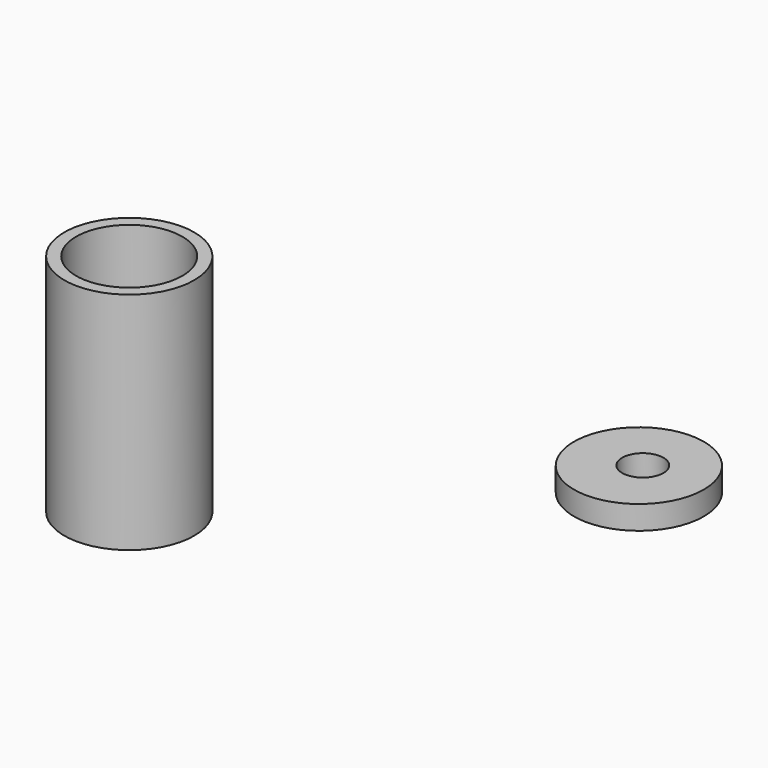
from build123d import *

# Parameters (mm, degrees)
F0_R      = 5.5
F1_DEPTH  = 19.05
F2_R      = 4.499991
F3_DEPTH  = 76.708
F4_W      = 0.485978
F4_H      = 6.280332
F5_DEPTH  = 0.762
F6_W      = 0.485978
F6_H      = 8.03733
F7_DEPTH  = 0.762
F8_W      = 0.371876
F8_H      = 9.338215
F9_DEPTH  = 0.762
F10_W     = 0.454515
F10_H     = 10.123286
F11_DEPTH = 0.762
F12_W     = 0.371876
F12_H     = 9.958009
F13_DEPTH = 0.762
F14_W     = 0.495835
F14_H     = 9.503493
F15_DEPTH = 0.762
F16_W     = 0.486436
F16_H     = 8.651616
F17_DEPTH = 0.762
F18_W     = 0.521182
F18_H     = 7.053327
F19_DEPTH = 0.762
F20_W     = 6.751313
F20_H     = 0.538448
F21_DEPTH = 0.762
F22_W     = 8.288373
F22_H     = 0.397597
F23_DEPTH = 0.762
F24_W     = 9.878763
F24_H     = 0.428182
F25_DEPTH = 0.762
F26_W     = 9.948163
F26_H     = 0.489871
F27_DEPTH = 0.762
F28_W     = 9.515634
F28_H     = 0.519034
F29_DEPTH = 0.762
F30_W     = 8.866841
F30_H     = 0.475782
F31_DEPTH = 0.762
F32_W     = 6.444679
F32_H     = 0.346023
F33_DEPTH = 0.762
F34_R     = 5.5
F35_DEPTH = 2
F36_R     = 1.75
F37_DEPTH = 19.7866


with BuildPart() as f1:
    # F0 (on Top) → F1 (new body)
    with BuildSketch(Plane.XY):
        Circle(F0_R)
    extrude(amount=F1_DEPTH)

    # F2 (on Top) → F3 (cut)
    with BuildSketch(Plane.XY):
        Circle(F2_R)
    extrude(amount=F3_DEPTH, mode=Mode.SUBTRACT)

    # F4 (on Top) → F5 (join)
    with BuildSketch(Plane.XY):
        with Locations((-4.024304, 0.004935)):
            Rectangle(F4_W, F4_H)
    extrude(amount=F5_DEPTH)

    # F6 (on Top) → F7 (join)
    with BuildSketch(Plane.XY):
        with Locations((-2.790667, 0.023627)):
            Rectangle(F6_W, F6_H)
    extrude(amount=F7_DEPTH)

    # F8 (on Top) → F9 (join)
    with BuildSketch(Plane.XY):
        with Locations((-1.778112, 0.074286)):
            Rectangle(F8_W, F8_H)
    extrude(amount=F9_DEPTH)

    # F10 (on Top) → F11 (join)
    with BuildSketch(Plane.XY):
        with Locations((-0.621165, -0.070333)):
            Rectangle(F10_W, F10_H)
    extrude(amount=F11_DEPTH)

    # F12 (on Top) → F13 (join)
    with BuildSketch(Plane.XY):
        with Locations((0.535782, -0.029014)):
            Rectangle(F12_W, F12_H)
    extrude(amount=F13_DEPTH)

    # F14 (on Top) → F15 (join)
    with BuildSketch(Plane.XY):
        with Locations((1.630749, -0.132312)):
            Rectangle(F14_W, F14_H)
    extrude(amount=F15_DEPTH)

    # F16 (on Top) → F17 (join)
    with BuildSketch(Plane.XY):
        with Locations((2.708646, -0.145055)):
            Rectangle(F16_W, F16_H)
    extrude(amount=F17_DEPTH)

    # F18 (on Top) → F19 (join)
    with BuildSketch(Plane.XY):
        with Locations((3.664146, -0.179801)):
            Rectangle(F18_W, F18_H)
    extrude(amount=F19_DEPTH)

    # F20 (on Top) → F21 (join)
    with BuildSketch(Plane.XY):
        with Locations((-0.047239, -3.837227)):
            Rectangle(F20_W, F20_H)
    extrude(amount=F21_DEPTH)

    # F22 (on Top) → F23 (join)
    with BuildSketch(Plane.XY):
        with Locations((0.064818, -2.492352)):
            Rectangle(F22_W, F22_H)
    extrude(amount=F23_DEPTH)

    # F24 (on Top) → F25 (join)
    with BuildSketch(Plane.XY):
        with Locations((0.064818, -1.284268)):
            Rectangle(F24_W, F24_H)
    extrude(amount=F25_DEPTH)

    # F26 (on Top) → F27 (join)
    with BuildSketch(Plane.XY):
        with Locations((-0.002149, 0.244936)):
            Rectangle(F26_W, F26_H)
    extrude(amount=F27_DEPTH)

    # F28 (on Top) → F29 (join)
    with BuildSketch(Plane.XY):
        with Locations((0.041104, 1.484687)):
            Rectangle(F28_W, F28_H)
    extrude(amount=F29_DEPTH)

    # F30 (on Top) → F31 (join)
    with BuildSketch(Plane.XY):
        with Locations((0.019477, 2.544383)):
            Rectangle(F30_W, F30_H)
    extrude(amount=F31_DEPTH)

    # F32 (on Top) → F33 (join)
    with BuildSketch(Plane.XY):
        with Locations((0.062731, 3.820342)):
            Rectangle(F32_W, F32_H)
    extrude(amount=F33_DEPTH)


with BuildPart() as f35:
    # F34 (on Top) → F35 (new body)
    with BuildSketch(Plane.XY):
        with Locations((24.589999, 23.214029)):
            Circle(F34_R)
    extrude(amount=F35_DEPTH)

    # F36 (on Top) → F37 (cut)
    with BuildSketch(Plane.XY):
        with Locations((24.769602, 23.404257)):
            Circle(F36_R)
    extrude(amount=F37_DEPTH, mode=Mode.SUBTRACT)


solid = Compound([f1.part, f35.part])
